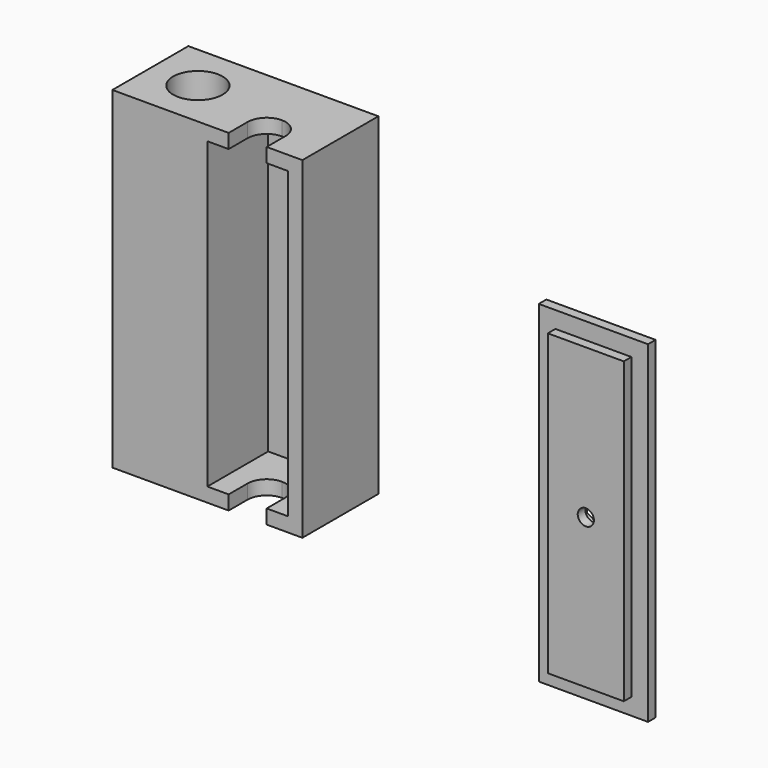
from build123d import *

# Parameters (mm, degrees)
F1_DEPTH  = 20
F2_DEPTH  = 4
F4_DEPTH  = 80
F5_W      = 23
F5_H      = 70
F5_W_2    = 16
F5_H_2    = 63
F6_DEPTH  = 2
F7_DEPTH  = 4
F8_DEPTH  = 80
F5_R      = 1.7
F9_DEPTH  = 4
F10_DEPTH = 2


with BuildPart() as f1:
    # F0 (on Front) → F1 (new body)
    with BuildSketch(Plane.XZ):
        Polygon((-40, 0), (-20, 0), (-20, 3), (-20, 35), (-20, 67), (-20, 70), (-40, 70), align=None)
        Polygon((-20, 0), (0, 0), (0, 70), (-20, 70), (-20, 67), (-11.5, 67), (-3, 67), (-3, 35), (-3, 3), (-11.5, 3), (-20, 3), align=None)
    extrude(amount=F1_DEPTH)

    # F0 (on Front) → F2 (join)
    with BuildSketch(Plane.XZ):
        with BuildLine():
            Line((-20, 67), (-20, 35))
            Line((-20, 35), (-15, 35))
            ThreePointArc((-15, 35), (-11.5, 38.5), (-8, 35))
            Line((-8, 35), (-3, 35))
            Line((-3, 35), (-3, 67))
            Line((-3, 67), (-11.5, 67))
            Line((-11.5, 67), (-20, 67))
        make_face()
        with BuildLine():
            ThreePointArc((-8.9, 53), (-13.3384776311, 51.1615223689), (-11.5, 55.6))
            ThreePointArc((-11.5, 55.6), (-9.6615223689, 54.8384776311), (-8.9, 53))
        make_face(mode=Mode.SUBTRACT)
        with BuildLine():
            Line((-20, 35), (-20, 3))
            Line((-20, 3), (-11.5, 3))
            Line((-11.5, 3), (-3, 3))
            Line((-3, 3), (-3, 35))
            Line((-3, 35), (-8, 35))
            ThreePointArc((-8, 35), (-11.5, 31.5), (-15, 35))
            Line((-15, 35), (-20, 35))
        make_face()
        with BuildLine():
            ThreePointArc((-8.9, 17), (-9.6615223689, 15.1615223689), (-11.5, 14.4))
            ThreePointArc((-11.5, 14.4), (-13.3384776311, 18.8384776311), (-8.9, 17))
        make_face(mode=Mode.SUBTRACT)
        with BuildLine():
            ThreePointArc((-8, 35), (-11.5, 38.5), (-15, 35))
            Line((-15, 35), (-13.2, 35))
            ThreePointArc((-13.2, 35), (-11.5, 36.7), (-9.8, 35))
            Line((-9.8, 35), (-8, 35))
        make_face()
        with BuildLine():
            Line((-13.2, 35), (-15, 35))
            ThreePointArc((-15, 35), (-11.5, 31.5), (-8, 35))
            Line((-8, 35), (-9.8, 35))
            ThreePointArc((-9.8, 35), (-11.5, 33.3), (-13.2, 35))
        make_face()
    extrude(amount=F2_DEPTH)

    # F3 (on face) → F4 (cut)
    with BuildSketch(Plane(origin=(0, 0, 0), x_dir=(1, 0, 0), z_dir=(0, 0, -1))):
        with BuildLine():
            ThreePointArc((-15.5182241425, 15), (-14.3466512672, 12.1715728753), (-11.5182241425, 11))
            ThreePointArc((-11.5182241425, 11), (-8.6897970177, 12.1715728753), (-7.5182241425, 15))
            Line((-7.5182241425, 15), (-7.5182241425, 20))
            Line((-7.5182241425, 20), (-15.5182241425, 20))
            Line((-15.5182241425, 20), (-15.5182241425, 15))
        make_face()
    extrude(amount=-F4_DEPTH, mode=Mode.SUBTRACT)

    # F3 (on face) → F8 (cut)
    with BuildSketch(Plane(origin=(0, 0, 0), x_dir=(1, 0, 0), z_dir=(0, 0, -1))):
        with BuildLine():
            ThreePointArc((-24.8, 10), (-30, 15.2), (-35.2, 10))
            ThreePointArc((-35.2, 10), (-30, 4.8), (-24.8, 10))
        make_face()
    extrude(amount=-F8_DEPTH, mode=Mode.SUBTRACT)


with BuildPart() as f6:
    # F5 (on Front) → F6 (new body)
    with BuildSketch(Plane.XZ):
        with Locations((46.872921288, 12.5420667385)):
            Rectangle(F5_W, F5_H)
        with Locations((46.872921288, 12.5420667385)):
            Rectangle(F5_W_2, F5_H_2, mode=Mode.SUBTRACT)
    extrude(amount=F6_DEPTH)

    # F5 (on Front) → F7 (join)
    with BuildSketch(Plane.XZ):
        with Locations((46.872921288, 12.5420667385)):
            Rectangle(F5_W_2, F5_H_2)
        Polygon((46.872921288, 9.0779651234), (43.872921288, 10.810015931), (43.872921288, 14.2741175461), (46.872921288, 16.0061683537), (49.872921288, 14.2741175461), (49.872921288, 10.810015931), align=None, mode=Mode.SUBTRACT)
    extrude(amount=F7_DEPTH)

    # F5 (on Front) → F9 (join)
    with BuildSketch(Plane.XZ):
        Polygon((43.872921288, 14.2741175461), (43.872921288, 10.810015931), (46.872921288, 9.0779651234), (49.872921288, 10.810015931), (49.872921288, 14.2741175461), (46.872921288, 16.0061683537), align=None)
        with Locations((46.872921288, 12.5420667385)):
            Circle(F5_R, mode=Mode.SUBTRACT)
    extrude(amount=F9_DEPTH)

    # F5 (on Front) → F10 (cut)
    with BuildSketch(Plane.XZ):
        Polygon((43.872921288, 14.2741175461), (43.872921288, 10.810015931), (46.872921288, 9.0779651234), (49.872921288, 10.810015931), (49.872921288, 14.2741175461), (46.872921288, 16.0061683537), align=None)
        with Locations((46.872921288, 12.5420667385)):
            Circle(F5_R, mode=Mode.SUBTRACT)
    extrude(amount=F10_DEPTH, mode=Mode.SUBTRACT)


solid = Compound([f1.part, f6.part])
